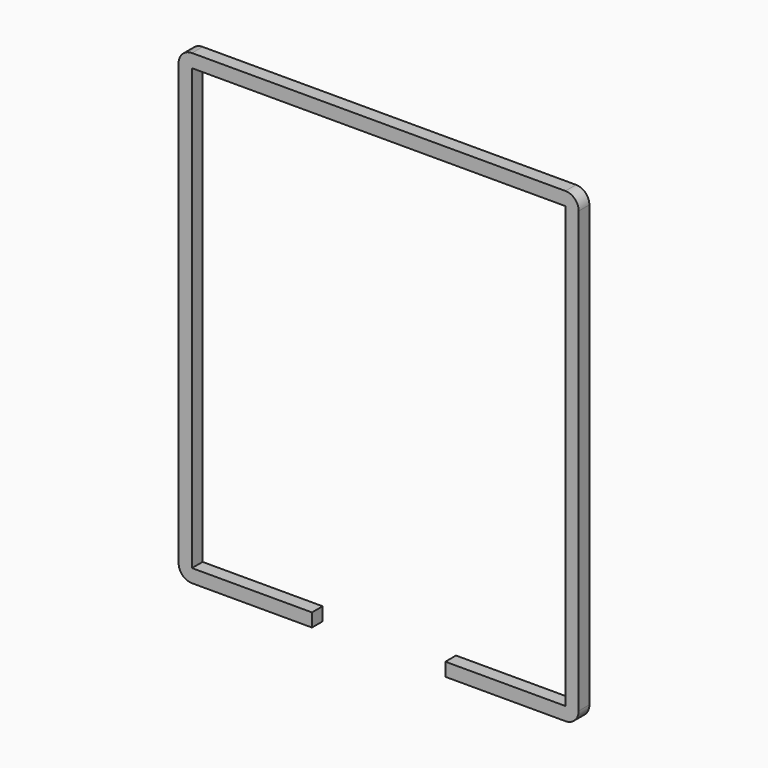
from build123d import *

# Parameters (mm, degrees)
F1_DEPTH = 5.08
F2_R     = 5.08
F3_R     = 5.08
F4_R     = 5.08
F5_R     = 5.08


with BuildPart() as f1:
    # F0 (on Front) → F1 (new body)
    with BuildSketch(Plane.XZ):
        Polygon((-101.6, 95.951064), (-101.6, -81.848936), (-50.8, -81.848936), (-50.8, -76.768936), (-96.52, -76.768936), (-96.52, 90.871064), (45.72, 90.871064), (45.72, -76.768936), (0, -76.768936), (0, -81.848936), (50.8, -81.848936), (50.8, 95.951064), align=None)
    extrude(amount=F1_DEPTH)

    # F2
    f2_edges = [f1.edges().sort_by_distance(p)[0] for p in [
        (-101.6, -2.54, 95.951064),
    ]]
    fillet(f2_edges, radius=F2_R)

    # F3
    f3_edges = [f1.edges().sort_by_distance(p)[0] for p in [
        (50.8, -2.54, 95.951064),
    ]]
    fillet(f3_edges, radius=F3_R)

    # F4
    f4_edges = [f1.edges().sort_by_distance(p)[0] for p in [
        (-101.6, -2.54, -81.848936),
    ]]
    fillet(f4_edges, radius=F4_R)

    # F5
    f5_edges = [f1.edges().sort_by_distance(p)[0] for p in [
        (50.8, -2.54, -81.848936),
    ]]
    fillet(f5_edges, radius=F5_R)


solid = f1.part
